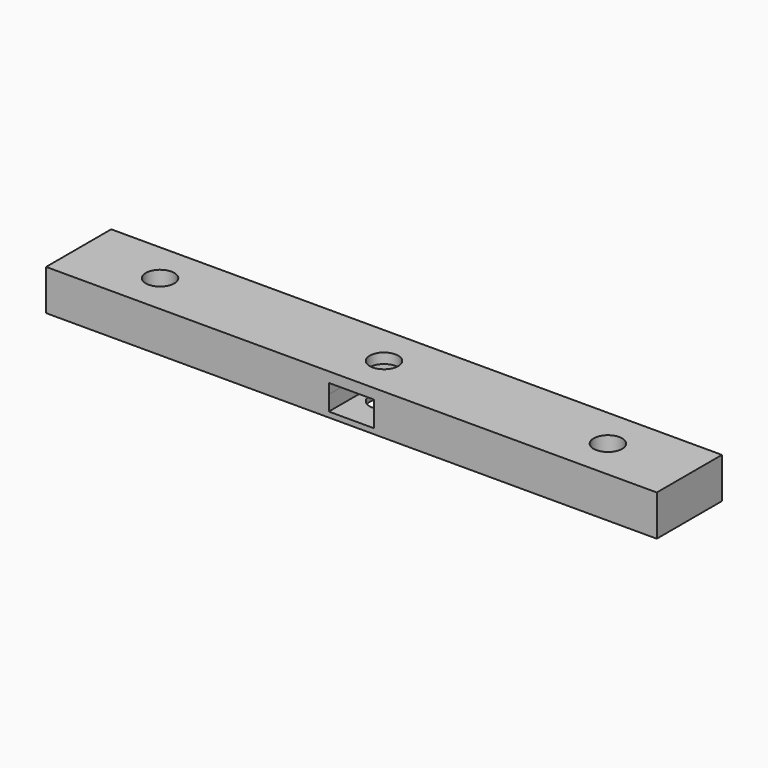
from build123d import *

# Parameters (mm, degrees)
F0_W          = 11.124
F0_H          = 6.4224443945
F1_DEPTH      = 5
F1_DEPTH_BACK = 5
F2_D          = 7
F2_DEPTH      = 5.001
F3_D          = 7
F4_DEPTH      = 2.5
F4_DEPTH_BACK = 3.7


with BuildPart() as f1:
    # F0 (on Top) → F1 (new body, two sides)
    with BuildSketch(Plane.XY) as f1_sk:
        Polygon((-5.562, 10), (-75, 10), (-75, -10), (-5.562, -10), (-5.562, -3.2112221972), (-5.562, 3.2112221972), align=None)
        Polygon((75, 10), (5.562, 10), (5.562, 3.2112221972), (5.562, -3.2112221972), (5.562, -10), (75, -10), align=None)
        Polygon((0, 6.4224443945), (-5.562, 3.2112221972), (5.562, 3.2112221972), align=None)
        Polygon((5.562, 10), (-5.562, 10), (-5.562, 3.2112221972), (0, 6.4224443945), (5.562, 3.2112221972), align=None)
        Polygon((-5.562, -3.2112221972), (-5.562, -10), (5.562, -10), (5.562, -3.2112221972), (0, -6.4224443945), align=None)
        Polygon((5.562, -3.2112221972), (-5.562, -3.2112221972), (0, -6.4224443945), align=None)
        Rectangle(F0_W, F0_H)
    extrude(amount=F1_DEPTH)
    extrude(f1_sk.sketch, amount=-F1_DEPTH_BACK)

    # F2 (through all, one way)
    with BuildSketch(Plane.XY):
        with Locations((-55, 0), (55, 0), (0, 0)):
            Circle(F2_D / 2)
    extrude(amount=-F2_DEPTH, mode=Mode.SUBTRACT)

    # F3 (through all)
    with Locations(Plane(origin=(0, 0, 0), x_dir=(1, 0, 0), z_dir=(0, 0, -1))):
        with Locations((55, 0), (-55, 0), (0, 0)):
            Hole(F3_D / 2)

    # F0 (on Top) → F4 (cut, two sides)
    with BuildSketch(Plane.XY) as f4_sk:
        Polygon((0, 6.4224443945), (-5.562, 3.2112221972), (5.562, 3.2112221972), align=None)
        Rectangle(F0_W, F0_H)
        Polygon((5.562, -3.2112221972), (-5.562, -3.2112221972), (0, -6.4224443945), align=None)
        Polygon((-5.562, -3.2112221972), (-5.562, -10), (5.562, -10), (5.562, -3.2112221972), (0, -6.4224443945), align=None)
    extrude(amount=F4_DEPTH, mode=Mode.SUBTRACT)
    extrude(f4_sk.sketch, amount=-F4_DEPTH_BACK, mode=Mode.SUBTRACT)


solid = f1.part
